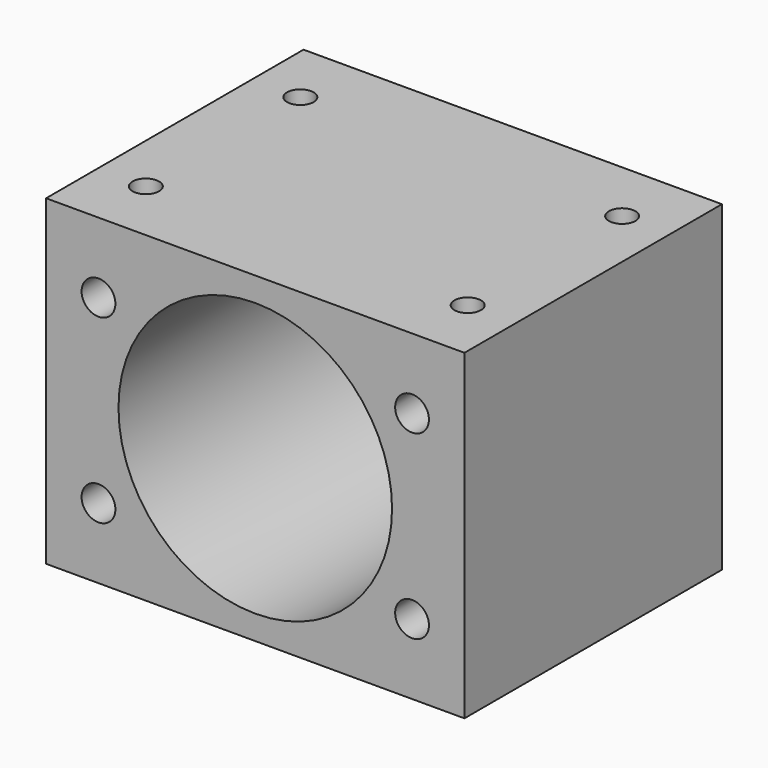
from build123d import *

# Parameters (mm, degrees)
F0_W     = 52
F0_H     = 40
F0_R     = 17
F1_DEPTH = 40
F2_D     = 4.2
F4_D     = 3.3


with BuildPart() as f1:
    # F0 (on Front) → F1 (new body)
    with BuildSketch(Plane.XZ):
        with Locations((2.2423448265, -1.9042189419)):
            Rectangle(F0_W, F0_H)
        with Locations((2.2423448265, -1.9042189419)):
            Circle(F0_R, mode=Mode.SUBTRACT)
    extrude(amount=F1_DEPTH)

    # F2 (through all)
    with Locations(Plane(origin=(0, 0, 0), x_dir=(1, 0, 0), z_dir=(0, 1, 0))):
        with Locations((21.7279164116, -9.3457810581), (21.7279164116, 13.1542189419), (-17.2432267587, 13.1542189419), (-17.2432267587, -9.3457810581)):
            Hole(F2_D / 2)

    # F4 (through all)
    with Locations(Plane.XY.offset(18.0957810581)):
        with Locations((-17.7576551735, -8), (-17.7576551735, -32), (22.2423448265, -32), (22.2423448265, -8)):
            Hole(F4_D / 2)


solid = f1.part
